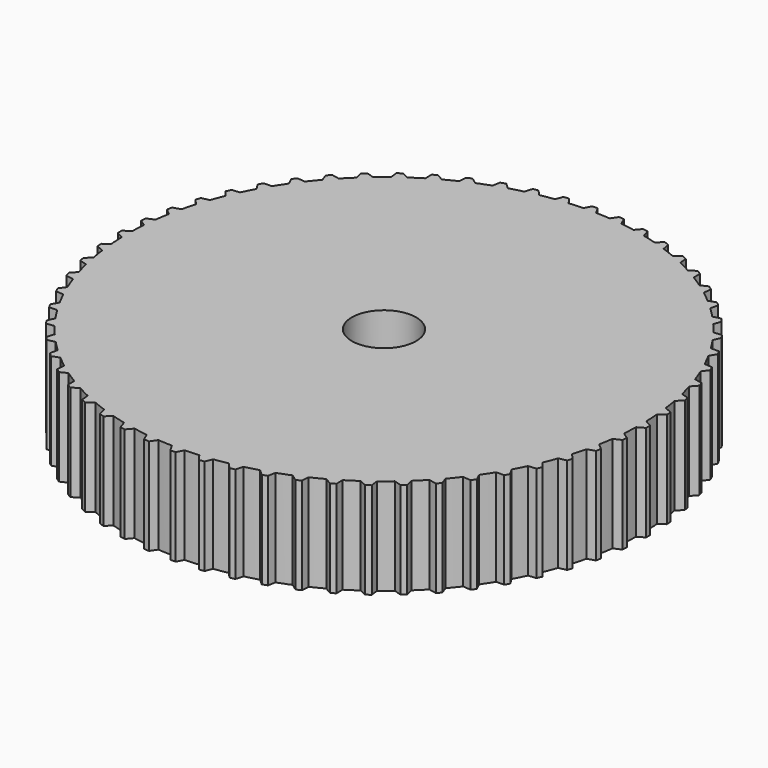
from build123d import *

# Parameters (mm, degrees)
F0_R     = 25.4
F0_R_2   = 3.175
F1_DEPTH = 9.525
F3_DEPTH = 9.525


with BuildPart() as f1:
    # F0 (on Top) → F1 (new body)
    with BuildSketch(Plane.XY):
        Circle(F0_R)
        Circle(F0_R_2, mode=Mode.SUBTRACT)
    extrude(amount=F1_DEPTH)

    # F2 (on face) → F3 (join, through all)
    with BuildSketch(Plane.XY.offset(9.525)):
        Polygon((-0.265908, 26.071792), (-0.635, 25.392061), (0.635, 25.392061), (0.242092, 26.071792), align=None)
        Polygon((-3.285715, 25.186585), (-2.022672, 25.319336), (-2.484478, 25.954274), (-2.989695, 25.901174), align=None)
        Polygon((-5.90043, 24.70516), (-4.658183, 24.969208), (-5.183828, 25.552395), (-5.680727, 25.446776), align=None)
        Polygon((-8.450499, 23.95306), (-7.242658, 24.345511), (-7.826383, 24.870559), (-8.30952, 24.713578), align=None)
        Polygon((-10.907983, 22.938524), (-9.74778, 23.45508), (-10.383191, 23.916235), (-10.847272, 23.709613), align=None)
        Polygon((-13.245957, 21.67267), (-12.146104, 22.30767), (-12.826238, 22.699881), (-13.266179, 22.445881), align=None)
        Polygon((-15.438805, 20.169365), (-14.411353, 20.915853), (-15.128758, 21.234821), (-15.539739, 20.936227), align=None)
        Polygon((-17.462502, 18.445081), (-16.518708, 19.294877), (-17.265525, 19.537109), (-17.643042, 19.197191), align=None)
        Polygon((-19.294877, 16.518708), (-18.445081, 17.462502), (-19.213126, 17.625344), (-19.553045, 17.247826), align=None)
        Polygon((-20.915853, 14.411353), (-20.169365, 15.438805), (-20.950225, 15.520472), (-21.24882, 15.109491), align=None)
        Polygon((-22.30767, 12.146104), (-21.67267, 13.245957), (-22.457788, 13.245554), (-22.711788, 12.805613), align=None)
        Polygon((-23.45508, 9.74778), (-22.938524, 10.907983), (-23.7193, 10.825516), (-23.925922, 10.361435), align=None)
        Polygon((-24.345511, 7.242658), (-23.95306, 8.450499), (-24.720937, 8.28687), (-24.877918, 7.803734), align=None)
        Polygon((-24.969208, 4.658183), (-24.70516, 5.90043), (-25.451727, 5.657432), (-25.557347, 5.160534), align=None)
        Polygon((-25.319336, 2.022672), (-25.186585, 3.285715), (-25.903663, 2.966011), (-25.956763, 2.460793), align=None)
        Polygon((-25.392061, -0.635), (-25.392061, 0.635), (-26.071792, 0.242092), (-26.071792, -0.265908), align=None)
        Polygon((-25.186585, -3.285715), (-25.319336, -2.022672), (-25.954274, -2.484478), (-25.901174, -2.989695), align=None)
        Polygon((-24.70516, -5.90043), (-24.969208, -4.658183), (-25.552395, -5.183828), (-25.446776, -5.680727), align=None)
        Polygon((-23.95306, -8.450499), (-24.345511, -7.242658), (-24.870559, -7.826383), (-24.713578, -8.30952), align=None)
        Polygon((-22.938524, -10.907983), (-23.45508, -9.74778), (-23.916235, -10.383191), (-23.709613, -10.847272), align=None)
        Polygon((-21.67267, -13.245957), (-22.30767, -12.146104), (-22.699881, -12.826238), (-22.445881, -13.266179), align=None)
        Polygon((-20.169365, -15.438805), (-20.915853, -14.411353), (-21.234821, -15.128758), (-20.936227, -15.539739), align=None)
        Polygon((-18.445081, -17.462502), (-19.294877, -16.518708), (-19.537109, -17.265525), (-19.197191, -17.643042), align=None)
        Polygon((-16.518708, -19.294877), (-17.462502, -18.445081), (-17.625344, -19.213126), (-17.247826, -19.553045), align=None)
        Polygon((-14.411353, -20.915853), (-15.438805, -20.169365), (-15.520472, -20.950225), (-15.109491, -21.24882), align=None)
        Polygon((-12.146104, -22.30767), (-13.245957, -21.67267), (-13.245554, -22.457788), (-12.805613, -22.711788), align=None)
        Polygon((-9.74778, -23.45508), (-10.907983, -22.938524), (-10.825516, -23.7193), (-10.361435, -23.925922), align=None)
        Polygon((-7.242658, -24.345511), (-8.450499, -23.95306), (-8.28687, -24.720937), (-7.803734, -24.877918), align=None)
        Polygon((-4.658183, -24.969208), (-5.90043, -24.70516), (-5.657432, -25.451727), (-5.160534, -25.557347), align=None)
        Polygon((-2.022672, -25.319336), (-3.285715, -25.186585), (-2.966011, -25.903663), (-2.460793, -25.956763), align=None)
        Polygon((0.635, -25.392061), (-0.635, -25.392061), (-0.242092, -26.071792), (0.265908, -26.071792), align=None)
        Polygon((3.285715, -25.186585), (2.022672, -25.319336), (2.484478, -25.954274), (2.989695, -25.901174), align=None)
        Polygon((5.90043, -24.70516), (4.658183, -24.969208), (5.183828, -25.552395), (5.680727, -25.446776), align=None)
        Polygon((8.450499, -23.95306), (7.242658, -24.345511), (7.826383, -24.870559), (8.30952, -24.713578), align=None)
        Polygon((10.907983, -22.938524), (9.74778, -23.45508), (10.383191, -23.916235), (10.847272, -23.709613), align=None)
        Polygon((13.245957, -21.67267), (12.146104, -22.30767), (12.826238, -22.699881), (13.266179, -22.445881), align=None)
        Polygon((15.438805, -20.169365), (14.411353, -20.915853), (15.128758, -21.234821), (15.539739, -20.936227), align=None)
        Polygon((17.462502, -18.445081), (16.518708, -19.294877), (17.265525, -19.537109), (17.643042, -19.197191), align=None)
        Polygon((19.294877, -16.518708), (18.445081, -17.462502), (19.213126, -17.625344), (19.553045, -17.247826), align=None)
        Polygon((20.915853, -14.411353), (20.169365, -15.438805), (20.950225, -15.520472), (21.24882, -15.109491), align=None)
        Polygon((22.30767, -12.146104), (21.67267, -13.245957), (22.457788, -13.245554), (22.711788, -12.805613), align=None)
        Polygon((23.45508, -9.74778), (22.938524, -10.907983), (23.7193, -10.825516), (23.925922, -10.361435), align=None)
        Polygon((24.345511, -7.242658), (23.95306, -8.450499), (24.720937, -8.28687), (24.877918, -7.803734), align=None)
        Polygon((24.969208, -4.658183), (24.70516, -5.90043), (25.451727, -5.657432), (25.557347, -5.160534), align=None)
        Polygon((25.319336, -2.022672), (25.186585, -3.285715), (25.903663, -2.966011), (25.956763, -2.460793), align=None)
        Polygon((25.392061, 0.635), (25.392061, -0.635), (26.071792, -0.242092), (26.071792, 0.265908), align=None)
        Polygon((25.186585, 3.285715), (25.319336, 2.022672), (25.954274, 2.484478), (25.901174, 2.989695), align=None)
        Polygon((24.70516, 5.90043), (24.969208, 4.658183), (25.552395, 5.183828), (25.446776, 5.680727), align=None)
        Polygon((23.95306, 8.450499), (24.345511, 7.242658), (24.870559, 7.826383), (24.713578, 8.30952), align=None)
        Polygon((22.938524, 10.907983), (23.45508, 9.74778), (23.916235, 10.383191), (23.709613, 10.847272), align=None)
        Polygon((21.67267, 13.245957), (22.30767, 12.146104), (22.699881, 12.826238), (22.445881, 13.266179), align=None)
        Polygon((20.169365, 15.438805), (20.915853, 14.411353), (21.234821, 15.128758), (20.936227, 15.539739), align=None)
        Polygon((18.445081, 17.462502), (19.294877, 16.518708), (19.537109, 17.265525), (19.197191, 17.643042), align=None)
        Polygon((16.518708, 19.294877), (17.462502, 18.445081), (17.625344, 19.213126), (17.247826, 19.553045), align=None)
        Polygon((14.411353, 20.915853), (15.438805, 20.169365), (15.520472, 20.950225), (15.109491, 21.24882), align=None)
        Polygon((12.146104, 22.30767), (13.245957, 21.67267), (13.245554, 22.457788), (12.805613, 22.711788), align=None)
        Polygon((9.74778, 23.45508), (10.907983, 22.938524), (10.825516, 23.7193), (10.361435, 23.925922), align=None)
        Polygon((7.242658, 24.345511), (8.450499, 23.95306), (8.28687, 24.720937), (7.803734, 24.877918), align=None)
        Polygon((4.658183, 24.969208), (5.90043, 24.70516), (5.657432, 25.451727), (5.160534, 25.557347), align=None)
        Polygon((2.022672, 25.319336), (3.285715, 25.186585), (2.966011, 25.903663), (2.460793, 25.956763), align=None)
    extrude(amount=-F3_DEPTH)


solid = f1.part
